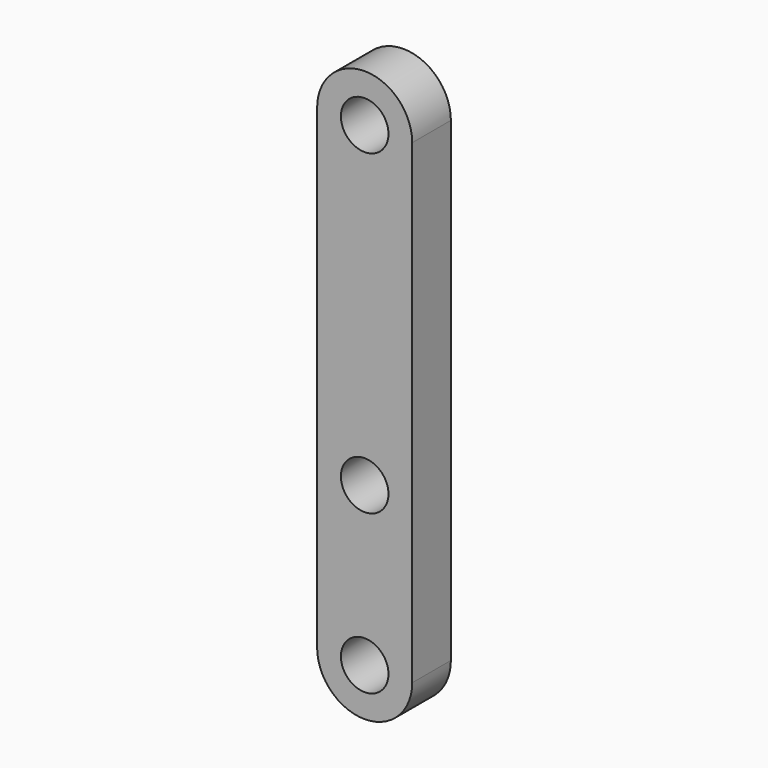
from build123d import *

# Parameters (mm, degrees)
F0_R     = 3.75
F1_DEPTH = 7.62


with BuildPart() as f1:
    # F0 (on Front) → F1 (new body)
    with BuildSketch(Plane.XZ):
        with BuildLine():
            ThreePointArc((-7.5, -25), (0, -32.5), (7.5, -25))
            ThreePointArc((7.5, -25), (0, -17.5), (-7.5, -25))
        make_face()
        with Locations((0, -25)):
            Circle(F0_R, mode=Mode.SUBTRACT)
        with BuildLine():
            ThreePointArc((-7.5, -25), (0, -17.5), (7.5, -25))
            Line((7.5, -25), (7.5, 50))
            ThreePointArc((7.5, 50), (0, 42.5), (-7.5, 50))
            Line((-7.5, 50), (-7.5, -25))
        make_face()
        Circle(F0_R, mode=Mode.SUBTRACT)
        with BuildLine():
            ThreePointArc((-7.5, 50), (0, 42.5), (7.5, 50))
            ThreePointArc((7.5, 50), (0, 57.5), (-7.5, 50))
        make_face()
        with Locations((0, 50)):
            Circle(F0_R, mode=Mode.SUBTRACT)
    extrude(amount=F1_DEPTH)


solid = f1.part
